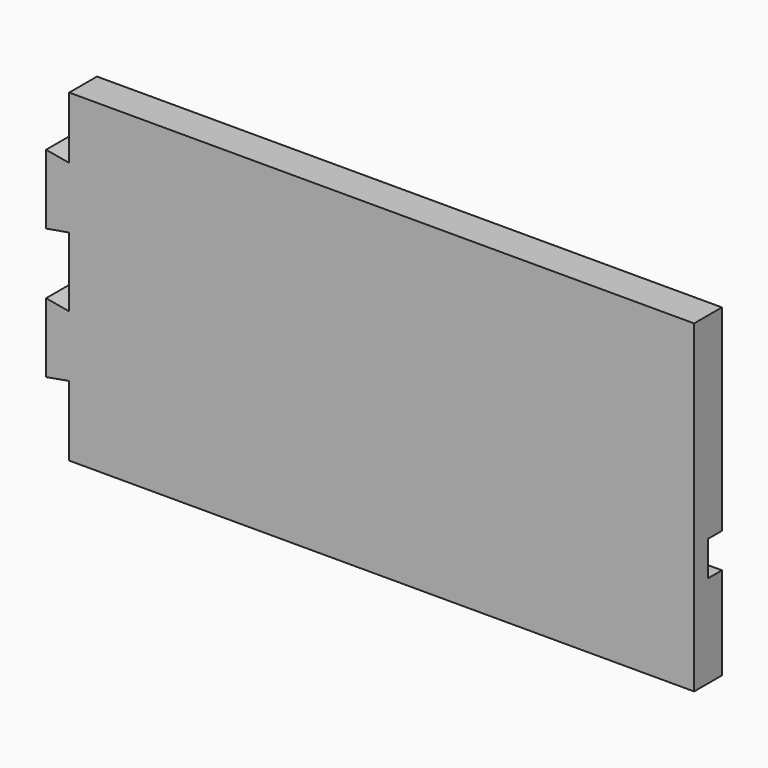
from build123d import *

# Parameters (mm, degrees)
F1_DEPTH = 19.05
F2_W     = 254
F2_H     = 19.05
F3_DEPTH = 9.525


with BuildPart() as f1:
    # F0 (on Front) → F1 (new body)
    with BuildSketch(Plane.XZ):
        Polygon((12.7, 38.468058), (12.7, 0), (355.6, 0), (355.6, 177.8), (12.7, 177.8), (12.7, 143.810647), (0, 146.05), (0, 107.95), (12.7, 110.189353), (12.7, 72.089353), (0, 74.328705), (0, 36.228705), align=None)
    extrude(amount=F1_DEPTH)

    # F2 (on face) → F3 (cut)
    with BuildSketch(Plane(origin=(0, 0, 0), x_dir=(-1, 0, 0), z_dir=(0, 1, 0))):
        with Locations((-228.6, 60.325)):
            Rectangle(F2_W, F2_H)
    extrude(amount=-F3_DEPTH, mode=Mode.SUBTRACT)


solid = f1.part
